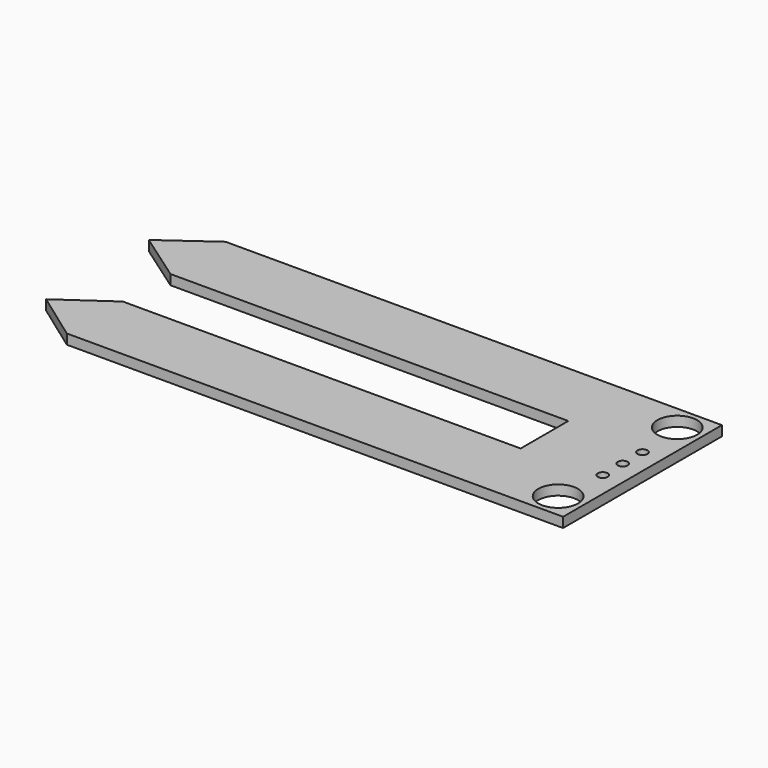
from build123d import *

# Parameters (mm, degrees)
SKETCH_R   = 2
SKETCH_R_2 = 0.5
PAD_DEPTH  = 1


with BuildPart() as part:
    # Sketch → Pad (new body)
    with BuildSketch(Plane.XY):
        Polygon((35.093211, 10), (35.093211, -10), (-14.906789, -10), (-19.819749, -6.468102), (-14.861446, -3.000147), (25.216118, -3.000147), (25.216118, 3.000147), (-14.861446, 3.000147), (-19.819749, 6.468102), (-14.906789, 10), align=None)
        with Locations((32.593211, 7.5)):
            Circle(SKETCH_R, mode=Mode.SUBTRACT)
        with Locations((32.593211, -7.5)):
            Circle(SKETCH_R, mode=Mode.SUBTRACT)
        with Locations((33.093211, 2.5)):
            Circle(SKETCH_R_2, mode=Mode.SUBTRACT)
        with Locations((33.093211, 0)):
            Circle(SKETCH_R_2, mode=Mode.SUBTRACT)
        with Locations((33.093211, -2.5)):
            Circle(SKETCH_R_2, mode=Mode.SUBTRACT)
    extrude(amount=PAD_DEPTH)


solid = part.part
